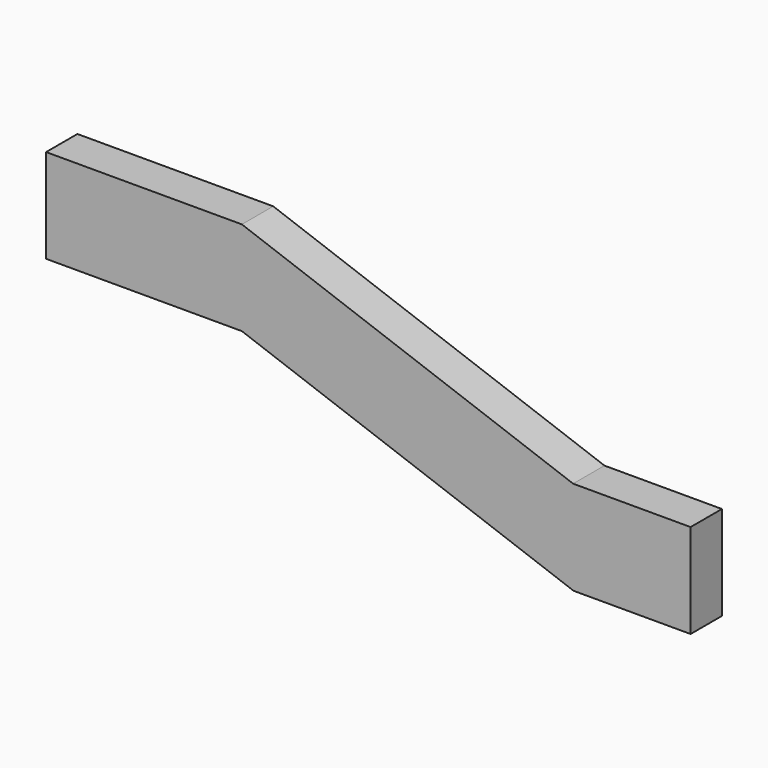
from build123d import *

# Parameters (mm, degrees)
F0_W     = 25
F0_H     = 12
F1_DEPTH = 5


with BuildPart() as f1:
    # F0 (on Front) → F1 (new body)
    with BuildSketch(Plane.XZ):
        with Locations((12.5, -6)):
            Rectangle(F0_W, F0_H)
        Polygon((67.286168, -15.390906), (25, 0), (25, -12), (67.286168, -27.390906), (67.286168, -16.693191), align=None)
        Polygon((82.286168, -15.390906), (67.286168, -15.390906), (67.286168, -16.693191), (67.286168, -27.390906), (67.286168, -27.412897), (82.286168, -27.412897), align=None)
    extrude(amount=F1_DEPTH)


solid = f1.part
